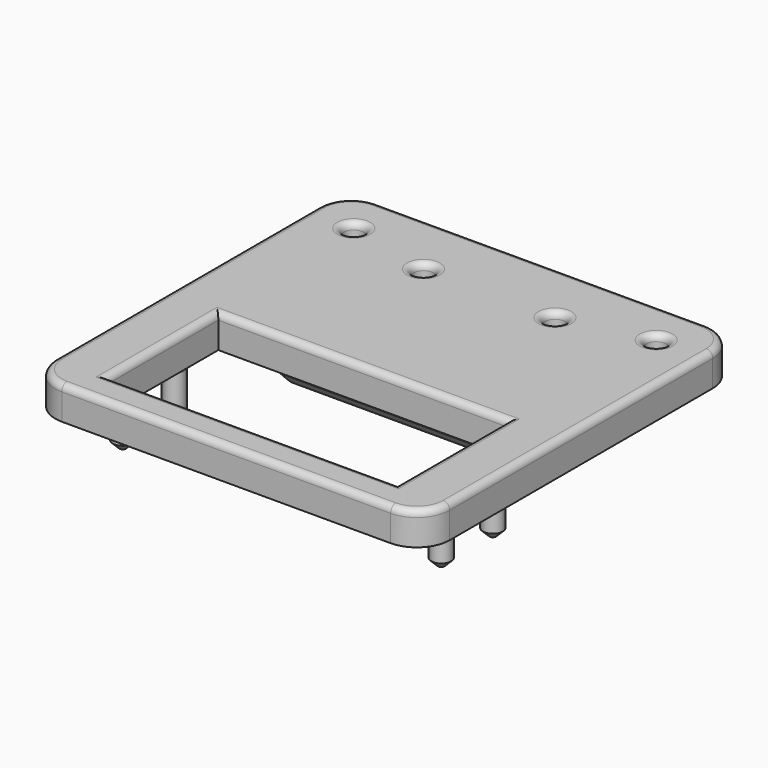
from build123d import *

# Parameters (mm, degrees)
SKETCH_W        = 60
SKETCH_H        = 60
SKETCH_R        = 1.5
SKETCH_W_2      = 44
SKETCH_H_2      = 21
PAD_DEPTH       = 5
SKETCH001_R     = 1.5
PAD001_DEPTH    = 7.5
CHAMFER_SIZE    = 1
FILLET_R        = 5
SKETCH002_W     = 30
SKETCH002_H     = 4
PAD002_DEPTH    = 4
SKETCH003_W     = 30
SKETCH003_H     = 1.6
PAD003_DEPTH    = 2
FILLET001_R     = 0.5
CHAMFER001_SIZE = 1.95
FILLET002_R     = 1
FILLET003_R     = 0.8
FILLET004_R     = 0.8
FILLET005_R     = 0.4


with BuildPart() as part:
    # Sketch → Pad (new body)
    with BuildSketch(Plane.XY):
        with Locations((30, 30)):
            Rectangle(SKETCH_W, SKETCH_H)
        with Locations((7, 53)):
            Circle(SKETCH_R, mode=Mode.SUBTRACT)
        with Locations((40, 50)):
            Circle(SKETCH_R, mode=Mode.SUBTRACT)
        with Locations((20, 50)):
            Circle(SKETCH_R, mode=Mode.SUBTRACT)
        with Locations((53, 53)):
            Circle(SKETCH_R, mode=Mode.SUBTRACT)
        with Locations((30, 15.5)):
            Rectangle(SKETCH_W_2, SKETCH_H_2, mode=Mode.SUBTRACT)
    extrude(amount=PAD_DEPTH)

    # Sketch001 (on Face13 of Pad) → Pad001 (join)
    with BuildSketch(Plane(origin=(0, 0, 0), x_dir=(1, 0, 0), z_dir=(0, 0, -1))):
        with Locations((5.775, -10.6)):
            Circle(SKETCH001_R)
        with Locations((5.775, -20.4)):
            Circle(SKETCH001_R)
        with Locations((54.225, -10.6)):
            Circle(SKETCH001_R)
        with Locations((54.225, -20.4)):
            Circle(SKETCH001_R)
    extrude(amount=PAD001_DEPTH)

    # Chamfer
    chamfer_edges = [part.edges().sort_by_distance(p)[0] for p in [
        (4.275, 10.6, -7.5),
        (4.275, 20.4, -7.5),
        (52.725, 20.4, -7.5),
        (52.725, 10.6, -7.5),
    ]]
    chamfer(chamfer_edges, length=CHAMFER_SIZE)

    # Fillet
    fillet_edges = [part.edges().sort_by_distance(p)[0] for p in [
        (0, 0, 2.5),
        (60, 0, 2.5),
        (0, 60, 2.5),
        (60, 60, 2.5),
    ]]
    fillet(fillet_edges, radius=FILLET_R)

    # Sketch002 (on Face1 of Fillet) → Pad002 (join)
    with BuildSketch(Plane(origin=(0, 0, 0), x_dir=(1, 0, 0), z_dir=(0, 0, -1))):
        with Locations((30, -31)):
            Rectangle(SKETCH002_W, SKETCH002_H)
    extrude(amount=PAD002_DEPTH)

    # Sketch003 (on Face23 of Pad002) → Pad003 (join)
    with BuildSketch(Plane(origin=(0, 33, 0), x_dir=(-1, 0, 0), z_dir=(0, 1, 0))):
        with Locations((-30, -3.2)):
            Rectangle(SKETCH003_W, SKETCH003_H)
    extrude(amount=PAD003_DEPTH)

    # Fillet001
    fillet001_edges = [part.edges().sort_by_distance(p)[0] for p in [
        (30, 35, -4),
        (45, 35, -3.2),
        (30, 35, -2.4),
        (15, 35, -3.2),
    ]]
    fillet(fillet001_edges, radius=FILLET001_R)

    # Chamfer001
    chamfer001_edges = [part.edges().sort_by_distance(p)[0] for p in [
        (30, 29, -4),
        (30, 29, 0),
    ]]
    chamfer(chamfer001_edges, length=CHAMFER001_SIZE)

    # Fillet002
    fillet002_edges = [part.edges().sort_by_distance(p)[0] for p in [
        (30, 0, 5),
        (1.464466, 1.464466, 5),
        (58.535534, 1.464466, 5),
        (0, 30, 5),
        (60, 30, 5),
        (1.464466, 58.535534, 5),
        (58.535534, 58.535534, 5),
        (30, 60, 5),
        (30, 26, 5),
        (52, 15.5, 5),
        (30, 5, 5),
        (8, 15.5, 5),
        (51.5, 53, 5),
        (18.5, 50, 5),
        (38.5, 50, 5),
        (5.5, 53, 5),
    ]]
    fillet(fillet002_edges, radius=FILLET002_R)

    # Fillet003
    fillet003_edges = [part.edges().sort_by_distance(p)[0] for p in [
        (30, 33, -2.4),
        (30, 33, 0),
    ]]
    fillet(fillet003_edges, radius=FILLET003_R)

    # Fillet004
    fillet004_edges = [part.edges().sort_by_distance(p)[0] for p in [
        (52.725, 20.4, 0),
        (52.725, 10.6, 0),
        (4.275, 20.4, 0),
        (4.275, 10.6, 0),
    ]]
    fillet(fillet004_edges, radius=FILLET004_R)

    # Fillet005
    fillet005_edges = [part.edges().sort_by_distance(p)[0] for p in [
        (45, 33.75, -4),
        (45, 31.975, -4),
        (15, 31.975, -4),
        (15, 33.75, -4),
    ]]
    fillet(fillet005_edges, radius=FILLET005_R)


solid = part.part
